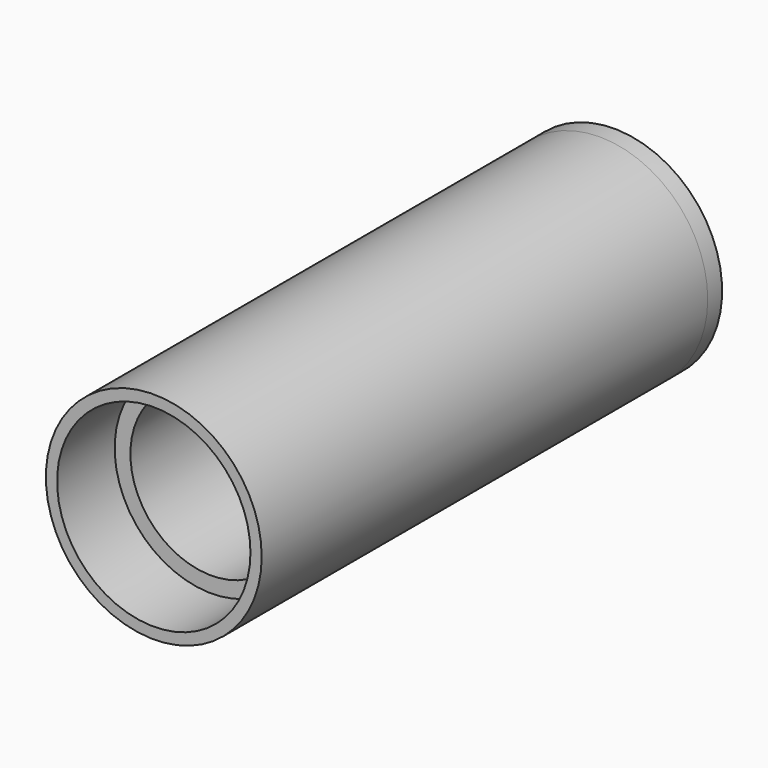
from build123d import *

# Parameters (mm, degrees)
F0_R     = 12
F0_R_2   = 9
F1_DEPTH = 62
F2_R     = 12
F3_DEPTH = 2
F4_R     = 10.75
F5_DEPTH = 8


with BuildPart() as f1:
    # F0 (on Front) → F1 (new body)
    with BuildSketch(Plane.XZ):
        Circle(F0_R)
        Circle(F0_R_2, mode=Mode.SUBTRACT)
    extrude(amount=F1_DEPTH)

    # F2 (on face) → F3 (join)
    with BuildSketch(Plane(origin=(0, 0, 0), x_dir=(-1, 0, 0), z_dir=(0, 1, 0))):
        Circle(F2_R)
    extrude(amount=F3_DEPTH)

    # F4 (on face) → F5 (cut)
    with BuildSketch(Plane.XZ.offset(62)):
        Circle(F4_R)
    extrude(amount=-F5_DEPTH, mode=Mode.SUBTRACT)


solid = f1.part
